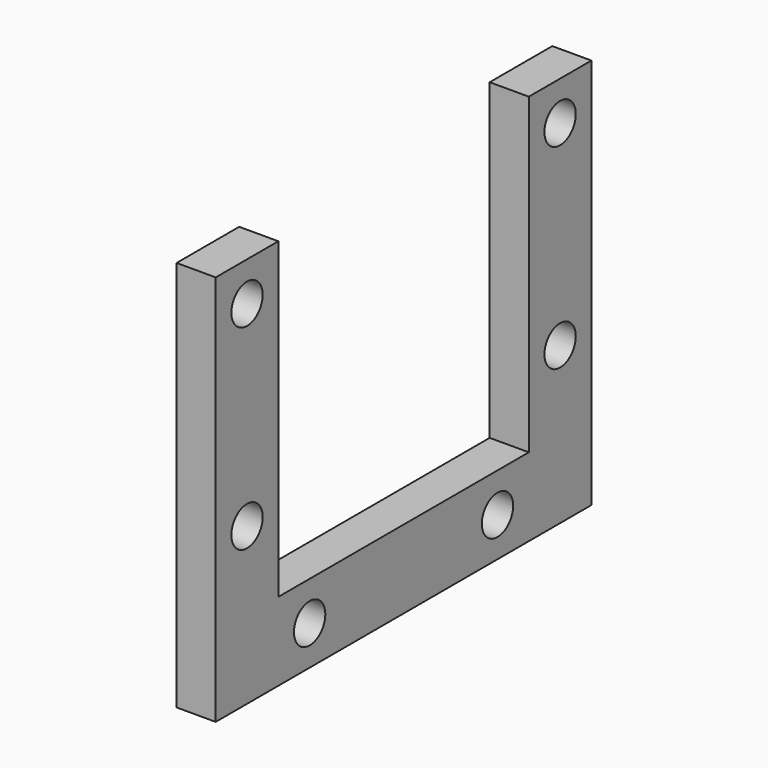
from build123d import *

# Parameters (mm, degrees)
F0_R     = 2.5
F1_DEPTH = 5


with BuildPart() as f1:
    # F0 (on Right) → F1 (new body)
    with BuildSketch(Plane.YZ):
        Polygon((-16.243222, 50), (-26.243222, 50), (-26.243222, 0), (33.756778, 0), (33.756778, 50), (23.756778, 50), (23.756778, 10), (-16.243222, 10), align=None)
        with Locations((-11.243222, 5)):
            Circle(F0_R, mode=Mode.SUBTRACT)
        with Locations((-21.243222, 20)):
            Circle(F0_R, mode=Mode.SUBTRACT)
        with Locations((18.756778, 5)):
            Circle(F0_R, mode=Mode.SUBTRACT)
        with Locations((28.756778, 20)):
            Circle(F0_R, mode=Mode.SUBTRACT)
        with Locations((-21.243222, 45)):
            Circle(F0_R, mode=Mode.SUBTRACT)
        with Locations((28.756778, 45)):
            Circle(F0_R, mode=Mode.SUBTRACT)
    extrude(amount=F1_DEPTH)


solid = f1.part
